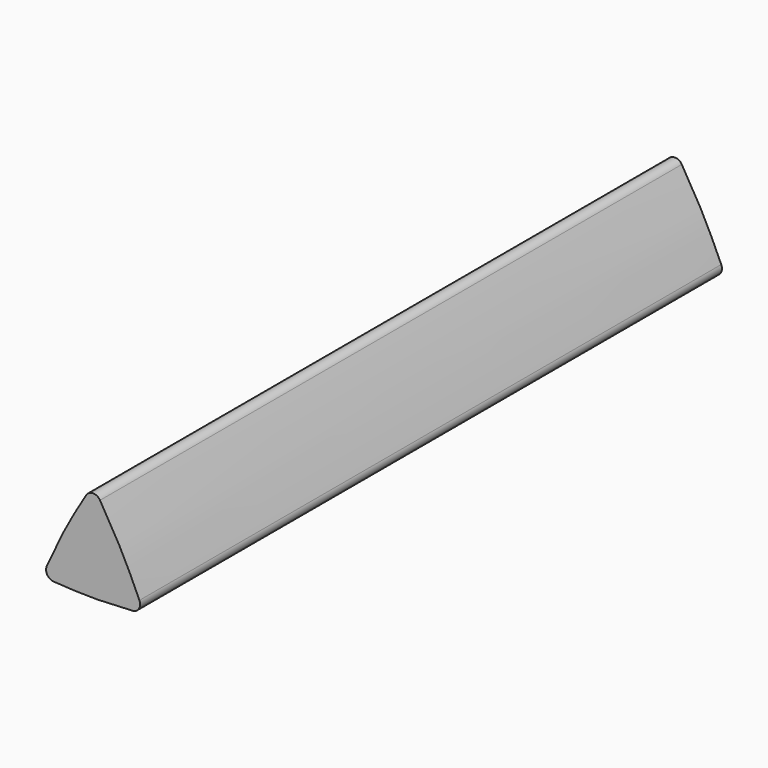
from build123d import *

# Parameters (mm, degrees)
F1_DEPTH = 44.9


with BuildPart() as f1:
    # F0 (on Front) → F1 (new body)
    with BuildSketch(Plane.XZ):
        with BuildLine():
            add(Edge.make_bspline(
                [(0.290014, 0.652725), (0.654464, 1.468686), (1.386119, 3.059577), (2.276955, 4.566897), (2.72267, 5.300609)],
                knots=[0.713428, 0.713428, 0.713428, 0.713428, 3.391626, 5.964573, 5.964573, 5.964573, 5.964573], degree=3))
            ThreePointArc((0.290014, 0.652725), (0.318085, 0.19109), (0.712737, -0.050041))
            add(Edge.make_bspline(
                [(5.587263, -0.050041), (4.774842, -0.1051), (3.15, -0.1949), (1.525158, -0.1051), (0.712737, -0.050041)],
                knots=[0.713545, 0.713545, 0.713545, 0.713545, 3.153569, 5.593594, 5.593594, 5.593594, 5.593594], degree=3))
            ThreePointArc((5.587263, -0.050041), (5.981915, 0.19109), (6.009986, 0.652725))
            add(Edge.make_bspline(
                [(3.57733, 5.300609), (4.023045, 4.566897), (4.913881, 3.059577), (5.645536, 1.468686), (6.009986, 0.652725)],
                knots=[0.818678, 0.818678, 0.818678, 0.818678, 3.391626, 6.069824, 6.069824, 6.069824, 6.069824], degree=3))
            ThreePointArc((3.57733, 5.300609), (3.15, 5.541014), (2.72267, 5.300609))
        make_face()
    extrude(amount=F1_DEPTH)


solid = f1.part
